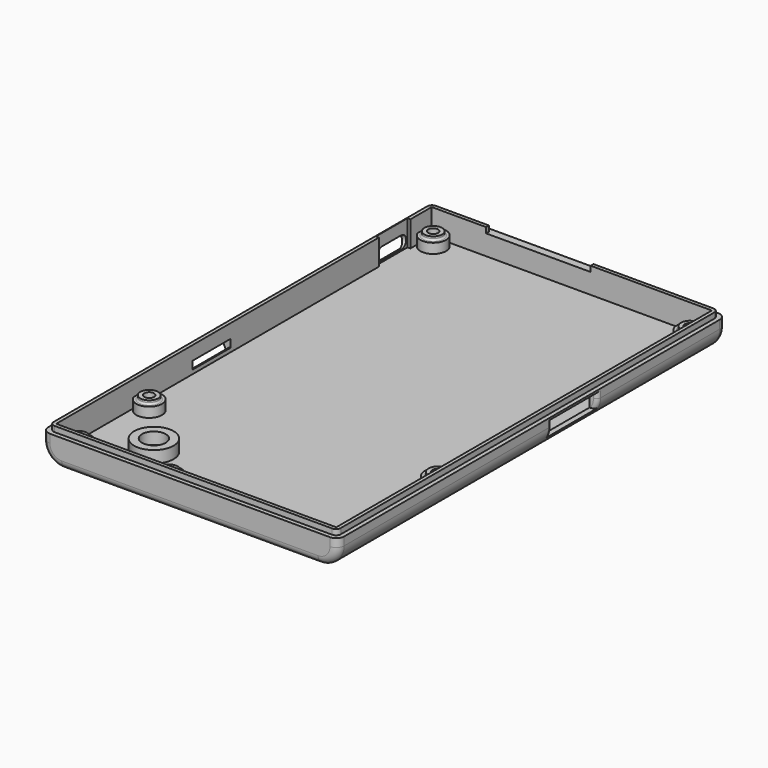
from build123d import *

# Parameters (mm, degrees)
SKETCH043_W     = 71
SKETCH043_H     = 119
PAD023_DEPTH    = 2
SKETCH044_W     = 75
SKETCH044_H     = 123
SKETCH044_W_2   = 71
SKETCH044_H_2   = 119
PAD024_DEPTH    = 7.1
FILLET010_R     = 5
SKETCH045_W     = 72.8
SKETCH045_H     = 120.8
SKETCH045_W_2   = 71
SKETCH045_H_2   = 119
PAD025_DEPTH    = 1.4
SKETCH052_W     = 14.5
SKETCH052_H     = 4
POCKET019_DEPTH = 5
SKETCH053_W     = 1.5
SKETCH053_H     = 10
POCKET020_DEPTH = 10
POCKET021_DEPTH = 5
SKETCH051_W     = 12
SKETCH051_H     = 2
POCKET022_DEPTH = 5
SKETCH055_W     = 26.5
SKETCH055_H     = 2.8
POCKET024_DEPTH = 5
FILLET014_R     = 2
SKETCH056_R     = 3.25
PAD026_DEPTH    = 2.5
SKETCH048_R     = 2.25
PAD027_DEPTH    = 0.9
SKETCH057_R     = 1.25
POCKET025_DEPTH = 5.5
FILLET018_R     = 1.2
FILLET019_R     = 0.85
SKETCH047_R     = 2.25
POCKET026_DEPTH = 3
FILLET020_R     = 0.4
SKETCH_R        = 5
SKETCH_R_2      = 3
PAD_DEPTH       = 5
FILLET_R        = 1


with BuildPart() as part:
    # Sketch043 → Pad023 (new body)
    with BuildSketch(Plane.XY):
        with Locations((0, -11.25)):
            Rectangle(SKETCH043_W, SKETCH043_H)
    extrude(amount=PAD023_DEPTH)

    # Sketch044 → Pad024 (join)
    with BuildSketch(Plane.XY):
        with Locations((0, -11.25)):
            Rectangle(SKETCH044_W, SKETCH044_H)
        with Locations((0, -11.25)):
            Rectangle(SKETCH044_W_2, SKETCH044_H_2, mode=Mode.SUBTRACT)
    extrude(amount=PAD024_DEPTH)

    # Fillet010
    fillet010_edges = [part.edges().sort_by_distance(p)[0] for p in [
        (37.5, -11.25, 0),
        (-37.5, -11.25, 0),
    ]]
    fillet(fillet010_edges, radius=FILLET010_R)

    # Sketch045 → Pad025 (join)
    with BuildSketch(Plane.XY.offset(7.1)):
        with Locations((0, -11.25)):
            Rectangle(SKETCH045_W, SKETCH045_H)
        with Locations((0, -11.25)):
            Rectangle(SKETCH045_W_2, SKETCH045_H_2, mode=Mode.SUBTRACT)
    extrude(amount=PAD025_DEPTH)

    # Sketch052 → Pocket019 (cut)
    with BuildSketch(Plane.YZ.offset(38)):
        with Locations((2.25, 4.6)):
            Rectangle(SKETCH052_W, SKETCH052_H)
    extrude(amount=-POCKET019_DEPTH, mode=Mode.SUBTRACT)

    # Sketch053 → Pocket020 (cut)
    with BuildSketch(Plane.XY.offset(2)):
        with Locations((-35.5, 36.5)):
            Rectangle(SKETCH053_W, SKETCH053_H)
    extrude(amount=POCKET020_DEPTH, mode=Mode.SUBTRACT)

    # Sketch050 → Pocket021 (cut)
    with BuildSketch(Plane.YZ.offset(-35.5)):
        with BuildLine():
            ThreePointArc((33.5, 5.5), (31.9, 3.9), (33.5, 2.3))
            Line((33.5, 2.3), (39.5, 2.3))
            ThreePointArc((39.5, 2.3), (41.1, 3.9), (39.5, 5.5))
            Line((33.5, 5.5), (39.5, 5.5))
        make_face()
    extrude(amount=-POCKET021_DEPTH, mode=Mode.SUBTRACT)

    # Sketch051 → Pocket022 (cut)
    with BuildSketch(Plane.YZ.offset(-35.5)):
        with Locations((-21.5, 4)):
            Rectangle(SKETCH051_W, SKETCH051_H)
    extrude(amount=-POCKET022_DEPTH, mode=Mode.SUBTRACT)

    # Sketch055 → Pocket024 (cut)
    with BuildSketch(Plane.XZ.offset(-51)):
        with Locations((-8.475, 8.5)):
            Rectangle(SKETCH055_W, SKETCH055_H)
    extrude(amount=POCKET024_DEPTH, mode=Mode.SUBTRACT)

    # Fillet014
    fillet014_edges = [part.edges().sort_by_distance(p)[0] for p in [
        (0, -72.75, 0),
        (0, 50.25, 0),
    ]]
    fillet(fillet014_edges, radius=FILLET014_R)

    # Sketch056 → Pad026 (join)
    with BuildSketch(Plane.XY.offset(2)):
        with Locations((-32.525, 45)):
            Circle(SKETCH056_R)
        with Locations((32.525, 45)):
            Circle(SKETCH056_R)
        with Locations((32.525, -35)):
            Circle(SKETCH056_R)
        with Locations((-9.525, -67.5)):
            Circle(SKETCH056_R)
        with Locations((-32.525, -67.5)):
            Circle(SKETCH056_R)
        with Locations((-32.525, -45)):
            Circle(SKETCH056_R)
    extrude(amount=PAD026_DEPTH)

    # Sketch048 → Pad027 (join)
    with BuildSketch(Plane.XY.offset(4.5)):
        with Locations((-32.525, 45)):
            Circle(SKETCH048_R)
        with Locations((32.525, 45)):
            Circle(SKETCH048_R)
        with Locations((32.525, -35)):
            Circle(SKETCH048_R)
        with Locations((-9.525, -67.5)):
            Circle(SKETCH048_R)
        with Locations((-32.525, -67.5)):
            Circle(SKETCH048_R)
        with Locations((-32.525, -45)):
            Circle(SKETCH048_R)
    extrude(amount=PAD027_DEPTH)

    # Sketch057 → Pocket025 (cut)
    with BuildSketch(Plane.XY):
        with Locations((-32.525, 45)):
            Circle(SKETCH057_R)
        with Locations((32.525, 45)):
            Circle(SKETCH057_R)
        with Locations((-32.525, -45)):
            Circle(SKETCH057_R)
        with Locations((-32.525, -67.5)):
            Circle(SKETCH057_R)
        with Locations((-9.525, -67.5)):
            Circle(SKETCH057_R)
        with Locations((32.525, -35)):
            Circle(SKETCH057_R)
    extrude(amount=POCKET025_DEPTH, mode=Mode.SUBTRACT)

    # Fillet018
    fillet018_edges = [part.edges().sort_by_distance(p)[0] for p in [
        (-36.4, -71.65, 7.8),
        (36.4, -71.65, 7.8),
        (-36.4, 49.15, 7.8),
        (36.4, 49.15, 7.8),
    ]]
    fillet(fillet018_edges, radius=FILLET018_R)

    # Fillet019
    fillet019_edges = [part.edges().sort_by_distance(p)[0] for p in [
        (-37.082576, -21.5, 3),
    ]]
    fillet(fillet019_edges, radius=FILLET019_R)

    # Sketch047 → Pocket026 (cut)
    with BuildSketch(Plane.XY):
        with Locations((-32.525, 45)):
            Circle(SKETCH047_R)
        with Locations((32.525, 45)):
            Circle(SKETCH047_R)
        with Locations((32.525, -35)):
            Circle(SKETCH047_R)
        with Locations((-9.525, -67.5)):
            Circle(SKETCH047_R)
        with Locations((-32.525, -67.5)):
            Circle(SKETCH047_R)
        with Locations((-32.525, -45)):
            Circle(SKETCH047_R)
    extrude(amount=POCKET026_DEPTH, mode=Mode.SUBTRACT)

    # Fillet020
    fillet020_edges = [part.edges().sort_by_distance(p)[0] for p in [
        (-11.775, -67.5, 4.5),
        (-34.775, -67.5, 4.5),
        (-34.775, -45, 4.5),
        (30.275, -35, 4.5),
        (30.275, 45, 4.5),
        (-34.775, 45, 4.5),
    ]]
    fillet(fillet020_edges, radius=FILLET020_R)

    # Sketch → Pad (join)
    with BuildSketch(Plane.XY):
        with Locations((-20.67556, -58.322777)):
            Circle(SKETCH_R)
        with Locations((-20.67556, -58.322777)):
            Circle(SKETCH_R_2, mode=Mode.SUBTRACT)
    extrude(amount=PAD_DEPTH)

    # Fillet
    fillet_edges = [part.edges().sort_by_distance(p)[0] for p in [
        (37.5, -5, 5.8),
        (37.344157, -5, 3.761394),
        (37.5, 9.5, 5.8),
        (37.344157, 9.5, 3.761394),
    ]]
    fillet(fillet_edges, radius=FILLET_R)


solid = part.part
